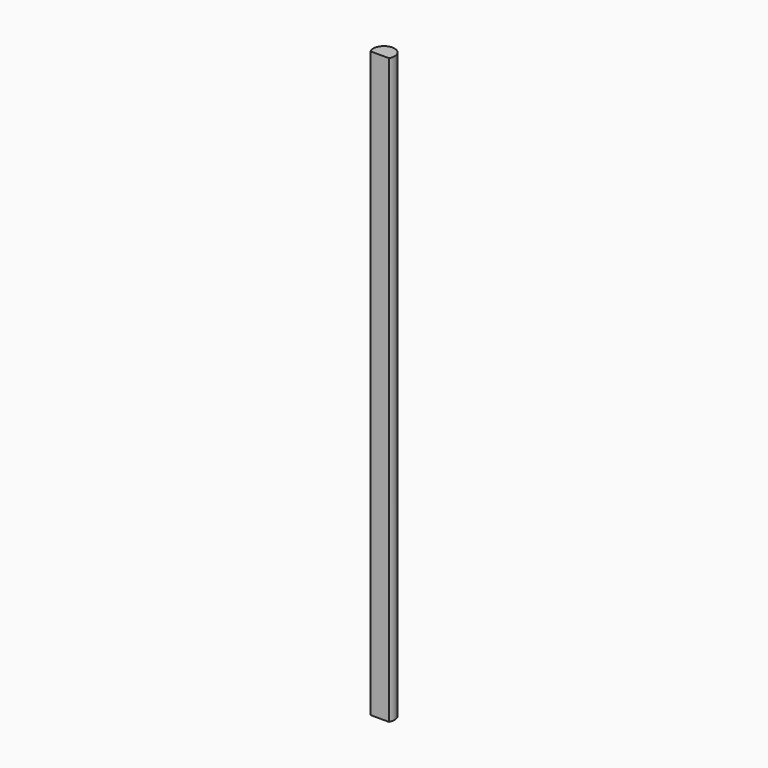
from build123d import *

# Parameters (mm, degrees)
F0_R     = 3
F1_DEPTH = 165.1
F3_DEPTH = 165.101


with BuildPart() as f1:
    # F0 (on Top) → F1 (new body)
    with BuildSketch(Plane.XY):
        Circle(F0_R)
    extrude(amount=F1_DEPTH)

    # F2 (on face) → F3 (cut, through all)
    with BuildSketch(Plane.XY.offset(165.1)):
        with BuildLine():
            Line((-2.6098820981, -1.4793631854), (-4.7224867158, -1.4793631854))
            Line((-4.7224867158, -1.4793631854), (-4.7224867158, -7.4564157985))
            Line((-4.7224867158, -7.4564157985), (14.87990655, -7.4564157985))
            Line((14.87990655, -7.4564157985), (14.87990655, -1.4793631854))
            Line((14.87990655, -1.4793631854), (2.6098820981, -1.4793631854))
            ThreePointArc((2.6098820981, -1.4793631854), (0, -3), (-2.6098820981, -1.4793631854))
        make_face()
        with BuildLine():
            Line((2.6098820981, -1.4793631854), (-2.6098820981, -1.4793631854))
            ThreePointArc((-2.6098820981, -1.4793631854), (0, -3), (2.6098820981, -1.4793631854))
        make_face()
    extrude(amount=-F3_DEPTH, mode=Mode.SUBTRACT)


solid = f1.part
